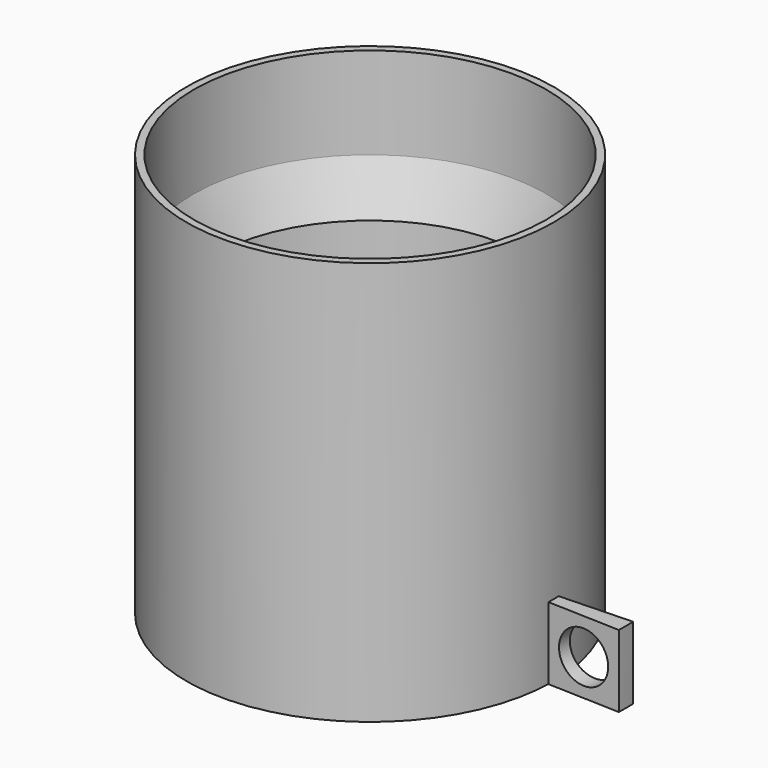
from build123d import *

# Parameters (mm, degrees)
F0_R          = 3.175
F1_DEPTH      = 0.635
F2_R          = 3.175
F2_R_2        = 3.048
F3_DEPTH      = 6.35
F7_W          = 1.2522329904
F7_H          = 1.2497299402
F7_R          = 0.4378185344
F8_ANGLE_BACK = 2
F8_ANGLE      = 4


with BuildPart() as f1:
    # F0 (on Top) → F1 (new body)
    with BuildSketch(Plane.XY):
        Circle(F0_R)
    extrude(amount=F1_DEPTH)

    # F2 (on face) → F3 (join)
    with BuildSketch(Plane.XY.offset(0.635)):
        Circle(F2_R)
        Circle(F2_R_2, mode=Mode.SUBTRACT)
    extrude(amount=F3_DEPTH)


with BuildPart() as f6:
    # F4 (on Front) → F6 (revolve)
    with BuildSketch(Plane.XZ):
        Polygon((3.048, 4.572), (3.048, 5.3960434188), (2.7091750678, 4.572), align=None)
    revolve(axis=Axis((0, 0, 12.5352637842), (0, 0, 1)))


with BuildPart() as f8:
    # F7 (on Front) → F8 (revolve)
    with BuildSketch(Plane.XZ, mode=Mode.PRIVATE) as f8_sk:
        with Locations((3.8011164952, 0.6248649701)):
            Rectangle(F7_W, F7_H)
        with Locations((3.8011164952, 0.6248649701)):
            Circle(F7_R, mode=Mode.SUBTRACT)
    revolve(f8_sk.sketch.rotate(Axis((0, 0, 12.5352637842), (0, 0, 1)), -F8_ANGLE_BACK), axis=Axis((0, 0, 12.5352637842), (0, 0, 1)), revolution_arc=F8_ANGLE)


solid = Compound([f1.part, f6.part, f8.part])
